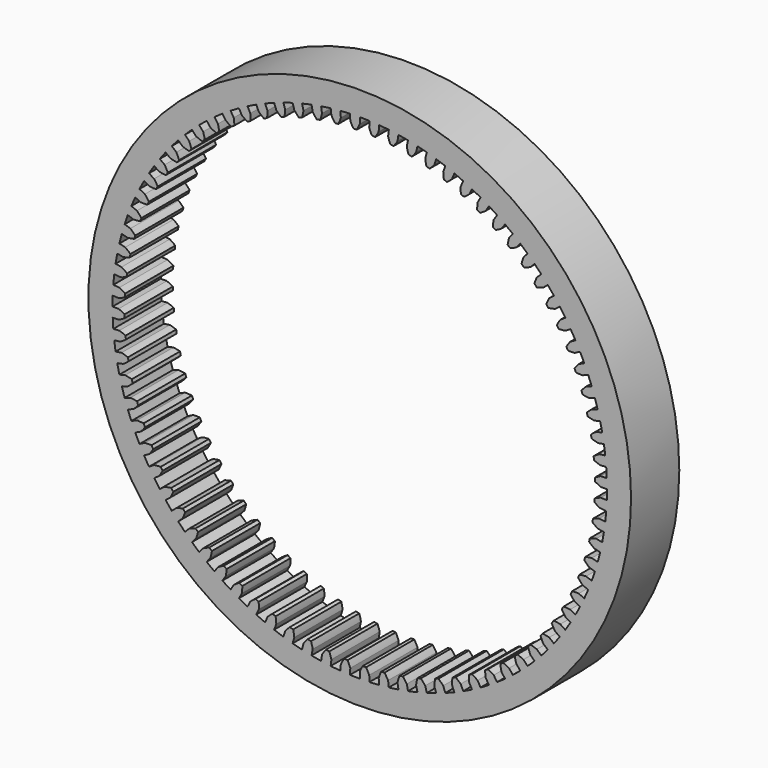
from build123d import *

# Parameters (mm, degrees)
F0_R     = 28.575
F1_DEPTH = 6.35


with BuildPart() as f1:
    # F0 (on Front) → F1 (new body)
    with BuildSketch(Plane.XZ):
        Circle(F0_R)
        with BuildLine():
            ThreePointArc((-2.042683, 25.954743), (-1.532701, 25.989845), (-1.022129, 26.014928))
            Line((-1.022129, 26.014928), (-0.997199, 25.380418))
            ThreePointArc((-0.997199, 25.380418), (-0.840404, 25.065488), (-0.666408, 24.759726))
            Line((-0.666408, 24.759726), (-0.306168, 24.7668))
            ThreePointArc((-0.306168, 24.7668), (-0.14431, 25.079158), (0, 25.4))
            Line((0, 25.4), (0, 26.035))
            ThreePointArc((0, 26.035), (0.511163, 26.029982), (1.022129, 26.014928))
            Line((1.022129, 26.014928), (0.997199, 25.380418))
            ThreePointArc((0.997199, 25.380418), (1.128802, 25.054157), (1.278272, 24.735686))
            Line((1.278272, 24.735686), (1.637957, 24.714474))
            ThreePointArc((1.637957, 24.714474), (1.823823, 25.01317), (1.992861, 25.3217))
            Line((1.992861, 25.3217), (2.042683, 25.954743))
            ThreePointArc((2.042683, 25.954743), (2.551876, 25.909634), (3.060086, 25.854537))
            Line((3.060086, 25.854537), (2.98545, 25.223939))
            ThreePointArc((2.98545, 25.223939), (3.091049, 24.888359), (3.215071, 24.559142))
            Line((3.215071, 24.559142), (3.571983, 24.509775))
            ThreePointArc((3.571983, 24.509775), (3.780711, 24.792967), (3.973435, 25.087284))
            Line((3.973435, 25.087284), (4.072771, 25.714466))
            ThreePointArc((4.072771, 25.714466), (4.576856, 25.629546), (5.079177, 25.534745))
            Line((5.079177, 25.534745), (4.955294, 24.911946))
            ThreePointArc((4.955294, 24.911946), (5.034238, 24.569115), (5.132048, 24.231183))
            Line((5.132048, 24.231183), (5.483987, 24.153965))
            ThreePointArc((5.483987, 24.153965), (5.71429, 24.419907), (5.929512, 24.698196))
            Line((5.929512, 24.698196), (6.07775, 25.315651))
            ThreePointArc((6.07775, 25.315651), (6.573618, 25.191442), (7.066952, 25.057522))
            Line((7.066952, 25.057522), (6.894587, 24.446363))
            ThreePointArc((6.894587, 24.446363), (6.94639, 24.098395), (7.017384, 23.75383))
            Line((7.017384, 23.75383), (7.36218, 23.649238))
            ThreePointArc((7.36218, 23.649238), (7.612639, 23.896291), (7.849032, 24.156836))
            Line((7.849032, 24.156836), (8.045257, 24.760756))
            ThreePointArc((8.045257, 24.760756), (8.529852, 24.598025), (9.011158, 24.425811))
            Line((9.011158, 24.425811), (8.791373, 23.83006))
            ThreePointArc((8.791373, 23.83006), (8.815715, 23.4791), (8.859456, 23.130028))
            Line((8.859456, 23.130028), (9.194982, 22.998705))
            ThreePointArc((9.194982, 22.998705), (9.464053, 23.225346), (9.720159, 23.46654))
            Line((9.720159, 23.46654), (9.963163, 24.053204))
            ThreePointArc((9.963163, 24.053204), (10.433496, 23.852953), (10.899806, 23.643508))
            Line((10.899806, 23.643508), (10.633957, 23.066837))
            ThreePointArc((10.633957, 23.066837), (10.630688, 22.715049), (10.646906, 22.363621))
            Line((10.646906, 22.363621), (10.971095, 22.206378))
            ThreePointArc((10.971095, 22.206378), (11.257118, 22.411209), (11.531359, 22.631566))
            Line((11.531359, 22.631566), (11.819643, 23.197355))
            ThreePointArc((11.819643, 23.197355), (12.272814, 22.96082), (12.721254, 22.715434))
            Line((12.721254, 22.715434), (12.41098, 22.161399))
            ThreePointArc((12.41098, 22.161399), (12.380119, 21.810952), (12.368715, 21.459334))
            Line((12.368715, 21.459334), (12.679567, 21.277141))
            ThreePointArc((12.679567, 21.277141), (12.980779, 21.458899), (13.271464, 21.65706))
            Line((13.271464, 21.65706), (13.60325, 22.198487))
            ThreePointArc((13.60325, 22.198487), (14.036466, 21.927126), (14.464271, 21.647311))
            Line((14.464271, 21.647311), (14.111484, 21.119328))
            ThreePointArc((14.111484, 21.119328), (14.053223, 20.772383), (14.014266, 20.422744))
            Line((14.014266, 20.422744), (14.309865, 20.216723))
            ThreePointArc((14.309865, 20.216723), (14.62441, 20.374288), (14.929745, 20.549032))
            Line((14.929745, 20.549032), (15.302989, 21.062757))
            ThreePointArc((15.302989, 21.062757), (15.713579, 20.758243), (16.118111, 20.445726))
            Line((16.118111, 20.445726), (15.724986, 19.94705))
            ThreePointArc((15.724986, 19.94705), (15.639684, 19.605746), (15.573415, 19.260241))
            Line((15.573415, 19.260241), (15.851938, 19.031663))
            ThreePointArc((15.851938, 19.031663), (16.177876, 19.164063), (16.49598, 19.314312))
            Line((16.49598, 19.314312), (16.90838, 19.797169))
            ThreePointArc((16.90838, 19.797169), (17.293812, 19.461379), (17.672577, 19.118087))
            Line((17.672577, 19.118087), (17.241539, 18.651792))
            ThreePointArc((17.241539, 18.651792), (17.129721, 18.318232), (17.036548, 17.978992))
            Line((17.036548, 17.978992), (17.296279, 17.729266))
            ThreePointArc((17.296279, 17.729266), (17.6316, 17.835685), (17.960512, 17.960512))
            Line((17.960512, 17.960512), (18.409525, 18.409525))
            ThreePointArc((18.409525, 18.409525), (18.767423, 18.044529), (19.118087, 17.672577))
            Line((19.118087, 17.672577), (18.651792, 17.241539))
            ThreePointArc((18.651792, 17.241539), (18.514148, 16.917781), (18.394646, 16.586897))
            Line((18.394646, 16.586897), (18.633983, 16.317562))
            ThreePointArc((18.633983, 16.317562), (18.976619, 16.397345), (19.314312, 16.49598))
            Line((19.314312, 16.49598), (19.797169, 16.90838))
            ThreePointArc((19.797169, 16.90838), (20.125327, 16.516429), (20.445726, 16.118111))
            Line((20.445726, 16.118111), (19.94705, 15.724986))
            ThreePointArc((19.94705, 15.724986), (19.784429, 15.413026), (19.639334, 15.092538))
            Line((19.639334, 15.092538), (19.856802, 14.805255))
            ThreePointArc((19.856802, 14.805255), (20.204642, 14.857909), (20.549032, 14.929745))
            Line((20.549032, 14.929745), (21.062757, 15.302989))
            ThreePointArc((21.062757, 15.302989), (21.359152, 14.8865), (21.647311, 14.464271))
            Line((21.647311, 14.464271), (21.119328, 14.111484))
            ThreePointArc((21.119328, 14.111484), (20.932732, 13.813244), (20.762939, 13.505128))
            Line((20.762939, 13.505128), (20.957197, 13.201668))
            ThreePointArc((20.957197, 13.201668), (21.308095, 13.226869), (21.65706, 13.271464))
            Line((21.65706, 13.271464), (22.198487, 13.60325))
            ThreePointArc((22.198487, 13.60325), (22.46129, 13.16479), (22.715434, 12.721254))
            Line((22.715434, 12.721254), (22.161399, 12.41098))
            ThreePointArc((22.161399, 12.41098), (21.951978, 12.128299), (21.758534, 11.834455))
            Line((21.758534, 11.834455), (21.928383, 11.516689))
            ThreePointArc((21.928383, 11.516689), (22.280178, 11.514281), (22.631566, 11.531359))
            Line((22.631566, 11.531359), (23.197355, 11.819643))
            ThreePointArc((23.197355, 11.819643), (23.424947, 11.361915), (23.643508, 10.899806))
            Line((23.643508, 10.899806), (23.066837, 10.633957))
            ThreePointArc((23.066837, 10.633957), (22.835883, 10.368579), (22.619981, 10.090818))
            Line((22.619981, 10.090818), (22.764375, 9.760706))
            ThreePointArc((22.764375, 9.760706), (23.114896, 9.730704), (23.46654, 9.720159))
            Line((23.46654, 9.720159), (24.053204, 9.963163))
            ThreePointArc((24.053204, 9.963163), (24.244181, 9.488989), (24.425811, 9.011158))
            Line((24.425811, 9.011158), (23.83006, 8.791373))
            ThreePointArc((23.83006, 8.791373), (23.578997, 8.544934), (23.341967, 8.284968))
            Line((23.341967, 8.284968), (23.460016, 7.944545))
            ThreePointArc((23.460016, 7.944545), (23.807102, 7.887133), (24.156836, 7.849032))
            Line((24.156836, 7.849032), (24.760756, 8.045257))
            ThreePointArc((24.760756, 8.045257), (24.913942, 7.557562), (25.057522, 7.066952))
            Line((25.057522, 7.066952), (24.446363, 6.894587))
            ThreePointArc((24.446363, 6.894587), (24.176739, 6.668606), (23.920043, 6.428039))
            Line((23.920043, 6.428039), (24.011018, 6.079403))
            ThreePointArc((24.011018, 6.079403), (24.35253, 5.994936), (24.698196, 5.929512))
            Line((24.698196, 5.929512), (25.315651, 6.07775))
            ThreePointArc((25.315651, 6.07775), (25.4301, 5.579539), (25.534745, 5.079177))
            Line((25.534745, 5.079177), (24.911946, 4.955294))
            ThreePointArc((24.911946, 4.955294), (24.625423, 4.751164), (24.350644, 4.531478))
            Line((24.350644, 4.531478), (24.413985, 4.176779))
            ThreePointArc((24.413985, 4.176779), (24.747817, 4.065778), (25.087284, 3.973435))
            Line((25.087284, 3.973435), (25.714466, 4.072771))
            ThreePointArc((25.714466, 4.072771), (25.789473, 3.567116), (25.854537, 3.060086))
            Line((25.854537, 3.060086), (25.223939, 2.98545))
            ThreePointArc((25.223939, 2.98545), (24.922283, 2.804429), (24.631114, 2.60698))
            Line((24.631114, 2.60698), (24.666431, 2.248405))
            ThreePointArc((24.666431, 2.248405), (24.990525, 2.111553), (25.3217, 1.992861))
            Line((25.3217, 1.992861), (25.954743, 2.042683))
            ThreePointArc((25.954743, 2.042683), (25.989845, 1.532701), (26.014928, 1.022129))
            Line((26.014928, 1.022129), (25.380418, 0.997199))
            ThreePointArc((25.380418, 0.997199), (25.065488, 0.840404), (24.759726, 0.666408))
            Line((24.759726, 0.666408), (24.7668, 0.306168))
            ThreePointArc((24.7668, 0.306168), (25.079158, 0.14431), (25.4, 0))
            Line((25.4, 0), (26.035, 0))
            ThreePointArc((26.035, 0), (26.029982, -0.511163), (26.014928, -1.022129))
            Line((26.014928, -1.022129), (25.380418, -0.997199))
            ThreePointArc((25.380418, -0.997199), (25.054157, -1.128802), (24.735686, -1.278272))
            Line((24.735686, -1.278272), (24.714474, -1.637957))
            ThreePointArc((24.714474, -1.637957), (25.01317, -1.823823), (25.3217, -1.992861))
            Line((25.3217, -1.992861), (25.954743, -2.042683))
            ThreePointArc((25.954743, -2.042683), (25.909634, -2.551876), (25.854537, -3.060086))
            Line((25.854537, -3.060086), (25.223939, -2.98545))
            ThreePointArc((25.223939, -2.98545), (24.888359, -3.091049), (24.559142, -3.215071))
            Line((24.559142, -3.215071), (24.509775, -3.571983))
            ThreePointArc((24.509775, -3.571983), (24.792967, -3.780711), (25.087284, -3.973435))
            Line((25.087284, -3.973435), (25.714466, -4.072771))
            ThreePointArc((25.714466, -4.072771), (25.629546, -4.576856), (25.534745, -5.079177))
            Line((25.534745, -5.079177), (24.911946, -4.955294))
            ThreePointArc((24.911946, -4.955294), (24.569115, -5.034238), (24.231183, -5.132048))
            Line((24.231183, -5.132048), (24.153965, -5.483987))
            ThreePointArc((24.153965, -5.483987), (24.419907, -5.71429), (24.698196, -5.929512))
            Line((24.698196, -5.929512), (25.315651, -6.07775))
            ThreePointArc((25.315651, -6.07775), (25.191442, -6.573618), (25.057522, -7.066952))
            Line((25.057522, -7.066952), (24.446363, -6.894587))
            ThreePointArc((24.446363, -6.894587), (24.098395, -6.94639), (23.75383, -7.017384))
            Line((23.75383, -7.017384), (23.649238, -7.36218))
            ThreePointArc((23.649238, -7.36218), (23.896291, -7.612639), (24.156836, -7.849032))
            Line((24.156836, -7.849032), (24.760756, -8.045257))
            ThreePointArc((24.760756, -8.045257), (24.598025, -8.529852), (24.425811, -9.011158))
            Line((24.425811, -9.011158), (23.83006, -8.791373))
            ThreePointArc((23.83006, -8.791373), (23.4791, -8.815715), (23.130028, -8.859456))
            Line((23.130028, -8.859456), (22.998705, -9.194982))
            ThreePointArc((22.998705, -9.194982), (23.225346, -9.464053), (23.46654, -9.720159))
            Line((23.46654, -9.720159), (24.053204, -9.963163))
            ThreePointArc((24.053204, -9.963163), (23.852953, -10.433496), (23.643508, -10.899806))
            Line((23.643508, -10.899806), (23.066837, -10.633957))
            ThreePointArc((23.066837, -10.633957), (22.715049, -10.630688), (22.363621, -10.646906))
            Line((22.363621, -10.646906), (22.206378, -10.971095))
            ThreePointArc((22.206378, -10.971095), (22.411209, -11.257118), (22.631566, -11.531359))
            Line((22.631566, -11.531359), (23.197355, -11.819643))
            ThreePointArc((23.197355, -11.819643), (22.96082, -12.272814), (22.715434, -12.721254))
            Line((22.715434, -12.721254), (22.161399, -12.41098))
            ThreePointArc((22.161399, -12.41098), (21.810952, -12.380119), (21.459334, -12.368715))
            Line((21.459334, -12.368715), (21.277141, -12.679567))
            ThreePointArc((21.277141, -12.679567), (21.458899, -12.980779), (21.65706, -13.271464))
            Line((21.65706, -13.271464), (22.198487, -13.60325))
            ThreePointArc((22.198487, -13.60325), (21.927126, -14.036466), (21.647311, -14.464271))
            Line((21.647311, -14.464271), (21.119328, -14.111484))
            ThreePointArc((21.119328, -14.111484), (20.772383, -14.053223), (20.422744, -14.014266))
            Line((20.422744, -14.014266), (20.216723, -14.309865))
            ThreePointArc((20.216723, -14.309865), (20.374288, -14.62441), (20.549032, -14.929745))
            Line((20.549032, -14.929745), (21.062757, -15.302989))
            ThreePointArc((21.062757, -15.302989), (20.758243, -15.713579), (20.445726, -16.118111))
            Line((20.445726, -16.118111), (19.94705, -15.724986))
            ThreePointArc((19.94705, -15.724986), (19.605746, -15.639684), (19.260241, -15.573415))
            Line((19.260241, -15.573415), (19.031663, -15.851938))
            ThreePointArc((19.031663, -15.851938), (19.164063, -16.177876), (19.314312, -16.49598))
            Line((19.314312, -16.49598), (19.797169, -16.90838))
            ThreePointArc((19.797169, -16.90838), (19.461379, -17.293812), (19.118087, -17.672577))
            Line((19.118087, -17.672577), (18.651792, -17.241539))
            ThreePointArc((18.651792, -17.241539), (18.318232, -17.129721), (17.978992, -17.036548))
            Line((17.978992, -17.036548), (17.729266, -17.296279))
            ThreePointArc((17.729266, -17.296279), (17.835685, -17.6316), (17.960512, -17.960512))
            Line((17.960512, -17.960512), (18.409525, -18.409525))
            ThreePointArc((18.409525, -18.409525), (18.044529, -18.767423), (17.672577, -19.118087))
            Line((17.672577, -19.118087), (17.241539, -18.651792))
            ThreePointArc((17.241539, -18.651792), (16.917781, -18.514148), (16.586897, -18.394646))
            Line((16.586897, -18.394646), (16.317562, -18.633983))
            ThreePointArc((16.317562, -18.633983), (16.397345, -18.976619), (16.49598, -19.314312))
            Line((16.49598, -19.314312), (16.90838, -19.797169))
            ThreePointArc((16.90838, -19.797169), (16.516429, -20.125327), (16.118111, -20.445726))
            Line((16.118111, -20.445726), (15.724986, -19.94705))
            ThreePointArc((15.724986, -19.94705), (15.413026, -19.784429), (15.092538, -19.639334))
            Line((15.092538, -19.639334), (14.805255, -19.856802))
            ThreePointArc((14.805255, -19.856802), (14.857909, -20.204642), (14.929745, -20.549032))
            Line((14.929745, -20.549032), (15.302989, -21.062757))
            ThreePointArc((15.302989, -21.062757), (14.8865, -21.359152), (14.464271, -21.647311))
            Line((14.464271, -21.647311), (14.111484, -21.119328))
            ThreePointArc((14.111484, -21.119328), (13.813244, -20.932732), (13.505128, -20.762939))
            Line((13.505128, -20.762939), (13.201668, -20.957197))
            ThreePointArc((13.201668, -20.957197), (13.226869, -21.308095), (13.271464, -21.65706))
            Line((13.271464, -21.65706), (13.60325, -22.198487))
            ThreePointArc((13.60325, -22.198487), (13.16479, -22.46129), (12.721254, -22.715434))
            Line((12.721254, -22.715434), (12.41098, -22.161399))
            ThreePointArc((12.41098, -22.161399), (12.128299, -21.951978), (11.834455, -21.758534))
            Line((11.834455, -21.758534), (11.516689, -21.928383))
            ThreePointArc((11.516689, -21.928383), (11.514281, -22.280178), (11.531359, -22.631566))
            Line((11.531359, -22.631566), (11.819643, -23.197355))
            ThreePointArc((11.819643, -23.197355), (11.361915, -23.424947), (10.899806, -23.643508))
            Line((10.899806, -23.643508), (10.633957, -23.066837))
            ThreePointArc((10.633957, -23.066837), (10.368579, -22.835883), (10.090818, -22.619981))
            Line((10.090818, -22.619981), (9.760706, -22.764375))
            ThreePointArc((9.760706, -22.764375), (9.730704, -23.114896), (9.720159, -23.46654))
            Line((9.720159, -23.46654), (9.963163, -24.053204))
            ThreePointArc((9.963163, -24.053204), (9.488989, -24.244181), (9.011158, -24.425811))
            Line((9.011158, -24.425811), (8.791373, -23.83006))
            ThreePointArc((8.791373, -23.83006), (8.544934, -23.578997), (8.284968, -23.341967))
            Line((8.284968, -23.341967), (7.944545, -23.460016))
            ThreePointArc((7.944545, -23.460016), (7.887133, -23.807102), (7.849032, -24.156836))
            Line((7.849032, -24.156836), (8.045257, -24.760756))
            ThreePointArc((8.045257, -24.760756), (7.557562, -24.913942), (7.066952, -25.057522))
            Line((7.066952, -25.057522), (6.894587, -24.446363))
            ThreePointArc((6.894587, -24.446363), (6.668606, -24.176739), (6.428039, -23.920043))
            Line((6.428039, -23.920043), (6.079403, -24.011018))
            ThreePointArc((6.079403, -24.011018), (5.994936, -24.35253), (5.929512, -24.698196))
            Line((5.929512, -24.698196), (6.07775, -25.315651))
            ThreePointArc((6.07775, -25.315651), (5.579539, -25.4301), (5.079177, -25.534745))
            Line((5.079177, -25.534745), (4.955294, -24.911946))
            ThreePointArc((4.955294, -24.911946), (4.751164, -24.625423), (4.531478, -24.350644))
            Line((4.531478, -24.350644), (4.176779, -24.413985))
            ThreePointArc((4.176779, -24.413985), (4.065778, -24.747817), (3.973435, -25.087284))
            Line((3.973435, -25.087284), (4.072771, -25.714466))
            ThreePointArc((4.072771, -25.714466), (3.567116, -25.789473), (3.060086, -25.854537))
            Line((3.060086, -25.854537), (2.98545, -25.223939))
            ThreePointArc((2.98545, -25.223939), (2.804429, -24.922283), (2.60698, -24.631114))
            Line((2.60698, -24.631114), (2.248405, -24.666431))
            ThreePointArc((2.248405, -24.666431), (2.111553, -24.990525), (1.992861, -25.3217))
            Line((1.992861, -25.3217), (2.042683, -25.954743))
            ThreePointArc((2.042683, -25.954743), (1.532701, -25.989845), (1.022129, -26.014928))
            Line((1.022129, -26.014928), (0.997199, -25.380418))
            ThreePointArc((0.997199, -25.380418), (0.840404, -25.065488), (0.666408, -24.759726))
            Line((0.666408, -24.759726), (0.306168, -24.7668))
            ThreePointArc((0.306168, -24.7668), (0.14431, -25.079158), (0, -25.4))
            Line((0, -25.4), (0, -26.035))
            ThreePointArc((0, -26.035), (-0.511163, -26.029982), (-1.022129, -26.014928))
            Line((-1.022129, -26.014928), (-0.997199, -25.380418))
            ThreePointArc((-0.997199, -25.380418), (-1.128802, -25.054157), (-1.278272, -24.735686))
            Line((-1.278272, -24.735686), (-1.637957, -24.714474))
            ThreePointArc((-1.637957, -24.714474), (-1.823823, -25.01317), (-1.992861, -25.3217))
            Line((-1.992861, -25.3217), (-2.042683, -25.954743))
            ThreePointArc((-2.042683, -25.954743), (-2.551876, -25.909634), (-3.060086, -25.854537))
            Line((-3.060086, -25.854537), (-2.98545, -25.223939))
            ThreePointArc((-2.98545, -25.223939), (-3.091049, -24.888359), (-3.215071, -24.559142))
            Line((-3.215071, -24.559142), (-3.571983, -24.509775))
            ThreePointArc((-3.571983, -24.509775), (-3.780711, -24.792967), (-3.973435, -25.087284))
            Line((-3.973435, -25.087284), (-4.072771, -25.714466))
            ThreePointArc((-4.072771, -25.714466), (-4.576856, -25.629546), (-5.079177, -25.534745))
            Line((-5.079177, -25.534745), (-4.955294, -24.911946))
            ThreePointArc((-4.955294, -24.911946), (-5.034238, -24.569115), (-5.132048, -24.231183))
            Line((-5.132048, -24.231183), (-5.483987, -24.153965))
            ThreePointArc((-5.483987, -24.153965), (-5.71429, -24.419907), (-5.929512, -24.698196))
            Line((-5.929512, -24.698196), (-6.07775, -25.315651))
            ThreePointArc((-6.07775, -25.315651), (-6.573618, -25.191442), (-7.066952, -25.057522))
            Line((-7.066952, -25.057522), (-6.894587, -24.446363))
            ThreePointArc((-6.894587, -24.446363), (-6.94639, -24.098395), (-7.017384, -23.75383))
            Line((-7.017384, -23.75383), (-7.36218, -23.649238))
            ThreePointArc((-7.36218, -23.649238), (-7.612639, -23.896291), (-7.849032, -24.156836))
            Line((-7.849032, -24.156836), (-8.045257, -24.760756))
            ThreePointArc((-8.045257, -24.760756), (-8.529852, -24.598025), (-9.011158, -24.425811))
            Line((-9.011158, -24.425811), (-8.791373, -23.83006))
            ThreePointArc((-8.791373, -23.83006), (-8.815715, -23.4791), (-8.859456, -23.130028))
            Line((-8.859456, -23.130028), (-9.194982, -22.998705))
            ThreePointArc((-9.194982, -22.998705), (-9.464053, -23.225346), (-9.720159, -23.46654))
            Line((-9.720159, -23.46654), (-9.963163, -24.053204))
            ThreePointArc((-9.963163, -24.053204), (-10.433496, -23.852953), (-10.899806, -23.643508))
            Line((-10.899806, -23.643508), (-10.633957, -23.066837))
            ThreePointArc((-10.633957, -23.066837), (-10.630688, -22.715049), (-10.646906, -22.363621))
            Line((-10.646906, -22.363621), (-10.971095, -22.206378))
            ThreePointArc((-10.971095, -22.206378), (-11.257118, -22.411209), (-11.531359, -22.631566))
            Line((-11.531359, -22.631566), (-11.819643, -23.197355))
            ThreePointArc((-11.819643, -23.197355), (-12.272814, -22.96082), (-12.721254, -22.715434))
            Line((-12.721254, -22.715434), (-12.41098, -22.161399))
            ThreePointArc((-12.41098, -22.161399), (-12.380119, -21.810952), (-12.368715, -21.459334))
            Line((-12.368715, -21.459334), (-12.679567, -21.277141))
            ThreePointArc((-12.679567, -21.277141), (-12.980779, -21.458899), (-13.271464, -21.65706))
            Line((-13.271464, -21.65706), (-13.60325, -22.198487))
            ThreePointArc((-13.60325, -22.198487), (-14.036466, -21.927126), (-14.464271, -21.647311))
            Line((-14.464271, -21.647311), (-14.111484, -21.119328))
            ThreePointArc((-14.111484, -21.119328), (-14.053223, -20.772383), (-14.014266, -20.422744))
            Line((-14.014266, -20.422744), (-14.309865, -20.216723))
            ThreePointArc((-14.309865, -20.216723), (-14.62441, -20.374288), (-14.929745, -20.549032))
            Line((-14.929745, -20.549032), (-15.302989, -21.062757))
            ThreePointArc((-15.302989, -21.062757), (-15.713579, -20.758243), (-16.118111, -20.445726))
            Line((-16.118111, -20.445726), (-15.724986, -19.94705))
            ThreePointArc((-15.724986, -19.94705), (-15.639684, -19.605746), (-15.573415, -19.260241))
            Line((-15.573415, -19.260241), (-15.851938, -19.031663))
            ThreePointArc((-15.851938, -19.031663), (-16.177876, -19.164063), (-16.49598, -19.314312))
            Line((-16.49598, -19.314312), (-16.90838, -19.797169))
            ThreePointArc((-16.90838, -19.797169), (-17.293812, -19.461379), (-17.672577, -19.118087))
            Line((-17.672577, -19.118087), (-17.241539, -18.651792))
            ThreePointArc((-17.241539, -18.651792), (-17.129721, -18.318232), (-17.036548, -17.978992))
            Line((-17.036548, -17.978992), (-17.296279, -17.729266))
            ThreePointArc((-17.296279, -17.729266), (-17.6316, -17.835685), (-17.960512, -17.960512))
            Line((-17.960512, -17.960512), (-18.409525, -18.409525))
            ThreePointArc((-18.409525, -18.409525), (-18.767423, -18.044529), (-19.118087, -17.672577))
            Line((-19.118087, -17.672577), (-18.651792, -17.241539))
            ThreePointArc((-18.651792, -17.241539), (-18.514148, -16.917781), (-18.394646, -16.586897))
            Line((-18.394646, -16.586897), (-18.633983, -16.317562))
            ThreePointArc((-18.633983, -16.317562), (-18.976619, -16.397345), (-19.314312, -16.49598))
            Line((-19.314312, -16.49598), (-19.797169, -16.90838))
            ThreePointArc((-19.797169, -16.90838), (-20.125327, -16.516429), (-20.445726, -16.118111))
            Line((-20.445726, -16.118111), (-19.94705, -15.724986))
            ThreePointArc((-19.94705, -15.724986), (-19.784429, -15.413026), (-19.639334, -15.092538))
            Line((-19.639334, -15.092538), (-19.856802, -14.805255))
            ThreePointArc((-19.856802, -14.805255), (-20.204642, -14.857909), (-20.549032, -14.929745))
            Line((-20.549032, -14.929745), (-21.062757, -15.302989))
            ThreePointArc((-21.062757, -15.302989), (-21.359152, -14.8865), (-21.647311, -14.464271))
            Line((-21.647311, -14.464271), (-21.119328, -14.111484))
            ThreePointArc((-21.119328, -14.111484), (-20.932732, -13.813244), (-20.762939, -13.505128))
            Line((-20.762939, -13.505128), (-20.957197, -13.201668))
            ThreePointArc((-20.957197, -13.201668), (-21.308095, -13.226869), (-21.65706, -13.271464))
            Line((-21.65706, -13.271464), (-22.198487, -13.60325))
            ThreePointArc((-22.198487, -13.60325), (-22.46129, -13.16479), (-22.715434, -12.721254))
            Line((-22.715434, -12.721254), (-22.161399, -12.41098))
            ThreePointArc((-22.161399, -12.41098), (-21.951978, -12.128299), (-21.758534, -11.834455))
            Line((-21.758534, -11.834455), (-21.928383, -11.516689))
            ThreePointArc((-21.928383, -11.516689), (-22.280178, -11.514281), (-22.631566, -11.531359))
            Line((-22.631566, -11.531359), (-23.197355, -11.819643))
            ThreePointArc((-23.197355, -11.819643), (-23.424947, -11.361915), (-23.643508, -10.899806))
            Line((-23.643508, -10.899806), (-23.066837, -10.633957))
            ThreePointArc((-23.066837, -10.633957), (-22.835883, -10.368579), (-22.619981, -10.090818))
            Line((-22.619981, -10.090818), (-22.764375, -9.760706))
            ThreePointArc((-22.764375, -9.760706), (-23.114896, -9.730704), (-23.46654, -9.720159))
            Line((-23.46654, -9.720159), (-24.053204, -9.963163))
            ThreePointArc((-24.053204, -9.963163), (-24.244181, -9.488989), (-24.425811, -9.011158))
            Line((-24.425811, -9.011158), (-23.83006, -8.791373))
            ThreePointArc((-23.83006, -8.791373), (-23.578997, -8.544934), (-23.341967, -8.284968))
            Line((-23.341967, -8.284968), (-23.460016, -7.944545))
            ThreePointArc((-23.460016, -7.944545), (-23.807102, -7.887133), (-24.156836, -7.849032))
            Line((-24.156836, -7.849032), (-24.760756, -8.045257))
            ThreePointArc((-24.760756, -8.045257), (-24.913942, -7.557562), (-25.057522, -7.066952))
            Line((-25.057522, -7.066952), (-24.446363, -6.894587))
            ThreePointArc((-24.446363, -6.894587), (-24.176739, -6.668606), (-23.920043, -6.428039))
            Line((-23.920043, -6.428039), (-24.011018, -6.079403))
            ThreePointArc((-24.011018, -6.079403), (-24.35253, -5.994936), (-24.698196, -5.929512))
            Line((-24.698196, -5.929512), (-25.315651, -6.07775))
            ThreePointArc((-25.315651, -6.07775), (-25.4301, -5.579539), (-25.534745, -5.079177))
            Line((-25.534745, -5.079177), (-24.911946, -4.955294))
            ThreePointArc((-24.911946, -4.955294), (-24.625423, -4.751164), (-24.350644, -4.531478))
            Line((-24.350644, -4.531478), (-24.413985, -4.176779))
            ThreePointArc((-24.413985, -4.176779), (-24.747817, -4.065778), (-25.087284, -3.973435))
            Line((-25.087284, -3.973435), (-25.714466, -4.072771))
            ThreePointArc((-25.714466, -4.072771), (-25.789473, -3.567116), (-25.854537, -3.060086))
            Line((-25.854537, -3.060086), (-25.223939, -2.98545))
            ThreePointArc((-25.223939, -2.98545), (-24.922283, -2.804429), (-24.631114, -2.60698))
            Line((-24.631114, -2.60698), (-24.666431, -2.248405))
            ThreePointArc((-24.666431, -2.248405), (-24.990525, -2.111553), (-25.3217, -1.992861))
            Line((-25.3217, -1.992861), (-25.954743, -2.042683))
            ThreePointArc((-25.954743, -2.042683), (-25.989845, -1.532701), (-26.014928, -1.022129))
            Line((-26.014928, -1.022129), (-25.380418, -0.997199))
            ThreePointArc((-25.380418, -0.997199), (-25.065488, -0.840404), (-24.759726, -0.666408))
            Line((-24.759726, -0.666408), (-24.7668, -0.306168))
            ThreePointArc((-24.7668, -0.306168), (-25.079158, -0.14431), (-25.4, 0))
            Line((-25.4, 0), (-26.035, 0))
            ThreePointArc((-26.035, 0), (-26.029982, 0.511163), (-26.014928, 1.022129))
            Line((-26.014928, 1.022129), (-25.380418, 0.997199))
            ThreePointArc((-25.380418, 0.997199), (-25.054157, 1.128802), (-24.735686, 1.278272))
            Line((-24.735686, 1.278272), (-24.714474, 1.637957))
            ThreePointArc((-24.714474, 1.637957), (-25.01317, 1.823823), (-25.3217, 1.992861))
            Line((-25.3217, 1.992861), (-25.954743, 2.042683))
            ThreePointArc((-25.954743, 2.042683), (-25.909634, 2.551876), (-25.854537, 3.060086))
            Line((-25.854537, 3.060086), (-25.223939, 2.98545))
            ThreePointArc((-25.223939, 2.98545), (-24.888359, 3.091049), (-24.559142, 3.215071))
            Line((-24.559142, 3.215071), (-24.509775, 3.571983))
            ThreePointArc((-24.509775, 3.571983), (-24.792967, 3.780711), (-25.087284, 3.973435))
            Line((-25.087284, 3.973435), (-25.714466, 4.072771))
            ThreePointArc((-25.714466, 4.072771), (-25.629546, 4.576856), (-25.534745, 5.079177))
            Line((-25.534745, 5.079177), (-24.911946, 4.955294))
            ThreePointArc((-24.911946, 4.955294), (-24.569115, 5.034238), (-24.231183, 5.132048))
            Line((-24.231183, 5.132048), (-24.153965, 5.483987))
            ThreePointArc((-24.153965, 5.483987), (-24.419907, 5.71429), (-24.698196, 5.929512))
            Line((-24.698196, 5.929512), (-25.315651, 6.07775))
            ThreePointArc((-25.315651, 6.07775), (-25.191442, 6.573618), (-25.057522, 7.066952))
            Line((-25.057522, 7.066952), (-24.446363, 6.894587))
            ThreePointArc((-24.446363, 6.894587), (-24.098395, 6.94639), (-23.75383, 7.017384))
            Line((-23.75383, 7.017384), (-23.649238, 7.36218))
            ThreePointArc((-23.649238, 7.36218), (-23.896291, 7.612639), (-24.156836, 7.849032))
            Line((-24.156836, 7.849032), (-24.760756, 8.045257))
            ThreePointArc((-24.760756, 8.045257), (-24.598025, 8.529852), (-24.425811, 9.011158))
            Line((-24.425811, 9.011158), (-23.83006, 8.791373))
            ThreePointArc((-23.83006, 8.791373), (-23.4791, 8.815715), (-23.130028, 8.859456))
            Line((-23.130028, 8.859456), (-22.998705, 9.194982))
            ThreePointArc((-22.998705, 9.194982), (-23.225346, 9.464053), (-23.46654, 9.720159))
            Line((-23.46654, 9.720159), (-24.053204, 9.963163))
            ThreePointArc((-24.053204, 9.963163), (-23.852953, 10.433496), (-23.643508, 10.899806))
            Line((-23.643508, 10.899806), (-23.066837, 10.633957))
            ThreePointArc((-23.066837, 10.633957), (-22.715049, 10.630688), (-22.363621, 10.646906))
            Line((-22.363621, 10.646906), (-22.206378, 10.971095))
            ThreePointArc((-22.206378, 10.971095), (-22.411209, 11.257118), (-22.631566, 11.531359))
            Line((-22.631566, 11.531359), (-23.197355, 11.819643))
            ThreePointArc((-23.197355, 11.819643), (-22.96082, 12.272814), (-22.715434, 12.721254))
            Line((-22.715434, 12.721254), (-22.161399, 12.41098))
            ThreePointArc((-22.161399, 12.41098), (-21.810952, 12.380119), (-21.459334, 12.368715))
            Line((-21.459334, 12.368715), (-21.277141, 12.679567))
            ThreePointArc((-21.277141, 12.679567), (-21.458899, 12.980779), (-21.65706, 13.271464))
            Line((-21.65706, 13.271464), (-22.198487, 13.60325))
            ThreePointArc((-22.198487, 13.60325), (-21.927126, 14.036466), (-21.647311, 14.464271))
            Line((-21.647311, 14.464271), (-21.119328, 14.111484))
            ThreePointArc((-21.119328, 14.111484), (-20.772383, 14.053223), (-20.422744, 14.014266))
            Line((-20.422744, 14.014266), (-20.216723, 14.309865))
            ThreePointArc((-20.216723, 14.309865), (-20.374288, 14.62441), (-20.549032, 14.929745))
            Line((-20.549032, 14.929745), (-21.062757, 15.302989))
            ThreePointArc((-21.062757, 15.302989), (-20.758243, 15.713579), (-20.445726, 16.118111))
            Line((-20.445726, 16.118111), (-19.94705, 15.724986))
            ThreePointArc((-19.94705, 15.724986), (-19.605746, 15.639684), (-19.260241, 15.573415))
            Line((-19.260241, 15.573415), (-19.031663, 15.851938))
            ThreePointArc((-19.031663, 15.851938), (-19.164063, 16.177876), (-19.314312, 16.49598))
            Line((-19.314312, 16.49598), (-19.797169, 16.90838))
            ThreePointArc((-19.797169, 16.90838), (-19.461379, 17.293812), (-19.118087, 17.672577))
            Line((-19.118087, 17.672577), (-18.651792, 17.241539))
            ThreePointArc((-18.651792, 17.241539), (-18.318232, 17.129721), (-17.978992, 17.036548))
            Line((-17.978992, 17.036548), (-17.729266, 17.296279))
            ThreePointArc((-17.729266, 17.296279), (-17.835685, 17.6316), (-17.960512, 17.960512))
            Line((-17.960512, 17.960512), (-18.409525, 18.409525))
            ThreePointArc((-18.409525, 18.409525), (-18.044529, 18.767423), (-17.672577, 19.118087))
            Line((-17.672577, 19.118087), (-17.241539, 18.651792))
            ThreePointArc((-17.241539, 18.651792), (-16.917781, 18.514148), (-16.586897, 18.394646))
            Line((-16.586897, 18.394646), (-16.317562, 18.633983))
            ThreePointArc((-16.317562, 18.633983), (-16.397345, 18.976619), (-16.49598, 19.314312))
            Line((-16.49598, 19.314312), (-16.90838, 19.797169))
            ThreePointArc((-16.90838, 19.797169), (-16.516429, 20.125327), (-16.118111, 20.445726))
            Line((-16.118111, 20.445726), (-15.724986, 19.94705))
            ThreePointArc((-15.724986, 19.94705), (-15.413026, 19.784429), (-15.092538, 19.639334))
            Line((-15.092538, 19.639334), (-14.805255, 19.856802))
            ThreePointArc((-14.805255, 19.856802), (-14.857909, 20.204642), (-14.929745, 20.549032))
            Line((-14.929745, 20.549032), (-15.302989, 21.062757))
            ThreePointArc((-15.302989, 21.062757), (-14.8865, 21.359152), (-14.464271, 21.647311))
            Line((-14.464271, 21.647311), (-14.111484, 21.119328))
            ThreePointArc((-14.111484, 21.119328), (-13.813244, 20.932732), (-13.505128, 20.762939))
            Line((-13.505128, 20.762939), (-13.201668, 20.957197))
            ThreePointArc((-13.201668, 20.957197), (-13.226869, 21.308095), (-13.271464, 21.65706))
            Line((-13.271464, 21.65706), (-13.60325, 22.198487))
            ThreePointArc((-13.60325, 22.198487), (-13.16479, 22.46129), (-12.721254, 22.715434))
            Line((-12.721254, 22.715434), (-12.41098, 22.161399))
            ThreePointArc((-12.41098, 22.161399), (-12.128299, 21.951978), (-11.834455, 21.758534))
            Line((-11.834455, 21.758534), (-11.516689, 21.928383))
            ThreePointArc((-11.516689, 21.928383), (-11.514281, 22.280178), (-11.531359, 22.631566))
            Line((-11.531359, 22.631566), (-11.819643, 23.197355))
            ThreePointArc((-11.819643, 23.197355), (-11.361915, 23.424947), (-10.899806, 23.643508))
            Line((-10.899806, 23.643508), (-10.633957, 23.066837))
            ThreePointArc((-10.633957, 23.066837), (-10.368579, 22.835883), (-10.090818, 22.619981))
            Line((-10.090818, 22.619981), (-9.760706, 22.764375))
            ThreePointArc((-9.760706, 22.764375), (-9.730704, 23.114896), (-9.720159, 23.46654))
            Line((-9.720159, 23.46654), (-9.963163, 24.053204))
            ThreePointArc((-9.963163, 24.053204), (-9.488989, 24.244181), (-9.011158, 24.425811))
            Line((-9.011158, 24.425811), (-8.791373, 23.83006))
            ThreePointArc((-8.791373, 23.83006), (-8.544934, 23.578997), (-8.284968, 23.341967))
            Line((-8.284968, 23.341967), (-7.944545, 23.460016))
            ThreePointArc((-7.944545, 23.460016), (-7.887133, 23.807102), (-7.849032, 24.156836))
            Line((-7.849032, 24.156836), (-8.045257, 24.760756))
            ThreePointArc((-8.045257, 24.760756), (-7.557562, 24.913942), (-7.066952, 25.057522))
            Line((-7.066952, 25.057522), (-6.894587, 24.446363))
            ThreePointArc((-6.894587, 24.446363), (-6.668606, 24.176739), (-6.428039, 23.920043))
            Line((-6.428039, 23.920043), (-6.079403, 24.011018))
            ThreePointArc((-6.079403, 24.011018), (-5.994936, 24.35253), (-5.929512, 24.698196))
            Line((-5.929512, 24.698196), (-6.07775, 25.315651))
            ThreePointArc((-6.07775, 25.315651), (-5.579539, 25.4301), (-5.079177, 25.534745))
            Line((-5.079177, 25.534745), (-4.955294, 24.911946))
            ThreePointArc((-4.955294, 24.911946), (-4.751164, 24.625423), (-4.531478, 24.350644))
            Line((-4.531478, 24.350644), (-4.176779, 24.413985))
            ThreePointArc((-4.176779, 24.413985), (-4.065778, 24.747817), (-3.973435, 25.087284))
            Line((-3.973435, 25.087284), (-4.072771, 25.714466))
            ThreePointArc((-4.072771, 25.714466), (-3.567116, 25.789473), (-3.060086, 25.854537))
            Line((-3.060086, 25.854537), (-2.98545, 25.223939))
            ThreePointArc((-2.98545, 25.223939), (-2.804429, 24.922283), (-2.60698, 24.631114))
            Line((-2.60698, 24.631114), (-2.248405, 24.666431))
            ThreePointArc((-2.248405, 24.666431), (-2.111553, 24.990525), (-1.992861, 25.3217))
            Line((-1.992861, 25.3217), (-2.042683, 25.954743))
        make_face(mode=Mode.SUBTRACT)
    extrude(amount=F1_DEPTH)


solid = f1.part
